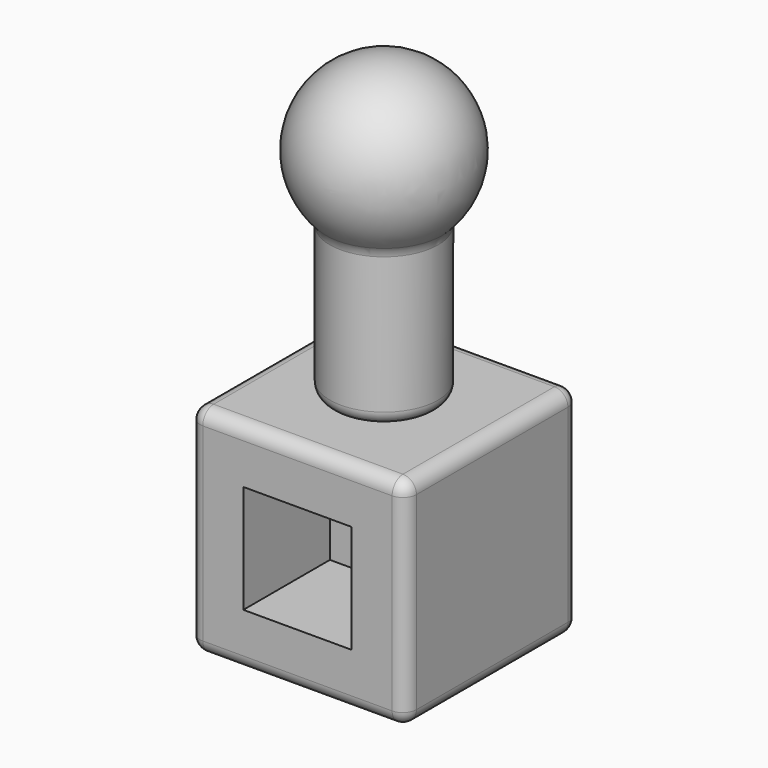
from build123d import *

# Parameters (mm, degrees)
F0_W     = 101.6
F0_H     = 101.6
F1_DEPTH = 101.6
F2_R     = 25.4
F3_DEPTH = 101.6
F6_W     = 50.8
F6_H     = 50.8
F7_DEPTH = 50.8
F8_R     = 6.35
F8_2_R   = 6.35


with BuildPart() as f1:
    # F0 (on Top) → F1 (new body)
    with BuildSketch(Plane.XY):
        Rectangle(F0_W, F0_H)
    extrude(amount=F1_DEPTH)

    # F6 (on face) → F7 (cut)
    with BuildSketch(Plane.XZ.offset(50.8)):
        with Locations((0, 50.8)):
            Rectangle(F6_W, F6_H)
    extrude(amount=-F7_DEPTH, mode=Mode.SUBTRACT)

    # F8
    f8_edges = [f1.edges().sort_by_distance(p)[0] for p in [
        (50.8, -50.8, 50.8),
        (50.8, 50.8, 50.8),
        (50.8, 0, 0),
        (50.8, 0, 101.6),
        (0, 50.8, 101.6),
        (-50.8, 0, 101.6),
        (0, -50.8, 101.6),
        (-50.8, 50.8, 50.8),
        (-50.8, -50.8, 50.8),
        (-50.8, 0, 0),
        (0, 50.8, 0),
        (0, -50.8, 0),
    ]]
    fillet(f8_edges, radius=F8_R)


with BuildPart() as f3:
    # F2 (on face) → F3 (new body)
    with BuildSketch(Plane.XY.offset(101.6)):
        Circle(F2_R)
    extrude(amount=F3_DEPTH)

    # F4 (on face) → F5 (revolve)
    with BuildSketch(Plane.XY.offset(203.2)):
        with BuildLine():
            Line((0, -25.4), (0, -38.1))
            ThreePointArc((0, -38.1), (38.1, 0), (0, 38.1))
            Line((0, 38.1), (0, 25.4))
            ThreePointArc((0, 25.4), (17.9605122421, 17.9605122421), (25.4, 0))
            ThreePointArc((25.4, 0), (17.9605122421, -17.9605122421), (0, -25.4))
        make_face()
    revolve(axis=Axis((0, 0, 203.2), (0, -1, 0)))

    # F8#2
    f8_2_edges = [f3.edges().sort_by_distance(p)[0] for p in [
        (-25.4, 0, 101.6),
        (-25.4, 0, 174.801937),
    ]]
    fillet(f8_2_edges, radius=F8_2_R)


solid = Compound([f1.part, f3.part])
